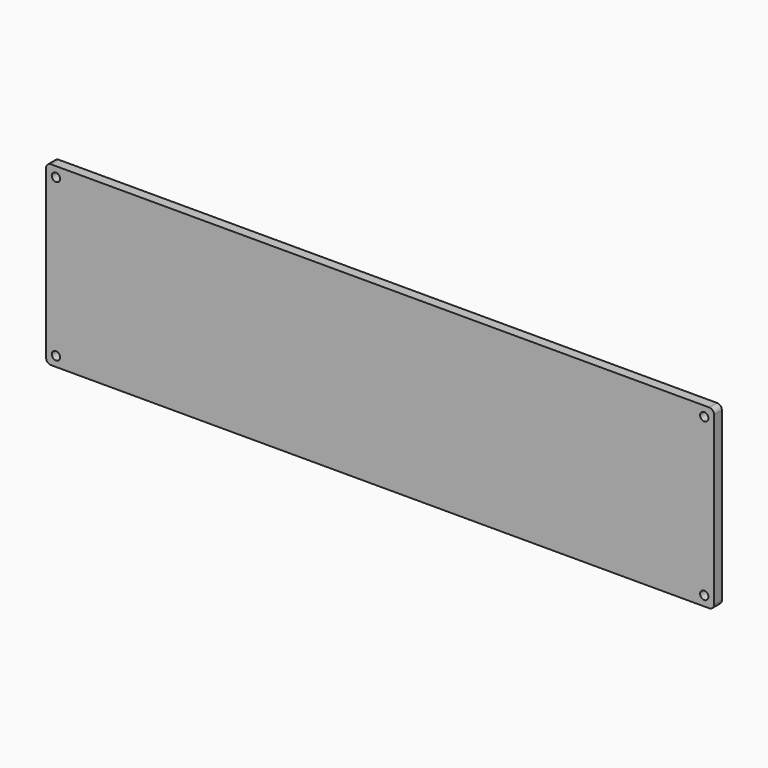
from build123d import *

# Parameters (mm, degrees)
F0_W     = 680
F0_H     = 180
F1_DEPTH = 10
F2_R     = 5
F4_D     = 8.5


with BuildPart() as f1:
    # F0 (on Front) → F1 (new body)
    with BuildSketch(Plane.XZ):
        Rectangle(F0_W, F0_H)
    extrude(amount=F1_DEPTH)

    # F2
    f2_edges = [f1.edges().sort_by_distance(p)[0] for p in [
        (-340, -5, 90),
        (340, -5, 90),
        (340, -5, -90),
        (-340, -5, -90),
    ]]
    fillet(f2_edges, radius=F2_R)

    # F4 (through all)
    with Locations(Plane.XZ.offset(10)):
        with Locations((-330, 80), (-330, -80), (330, -80), (330, 80)):
            Hole(F4_D / 2)


solid = f1.part
